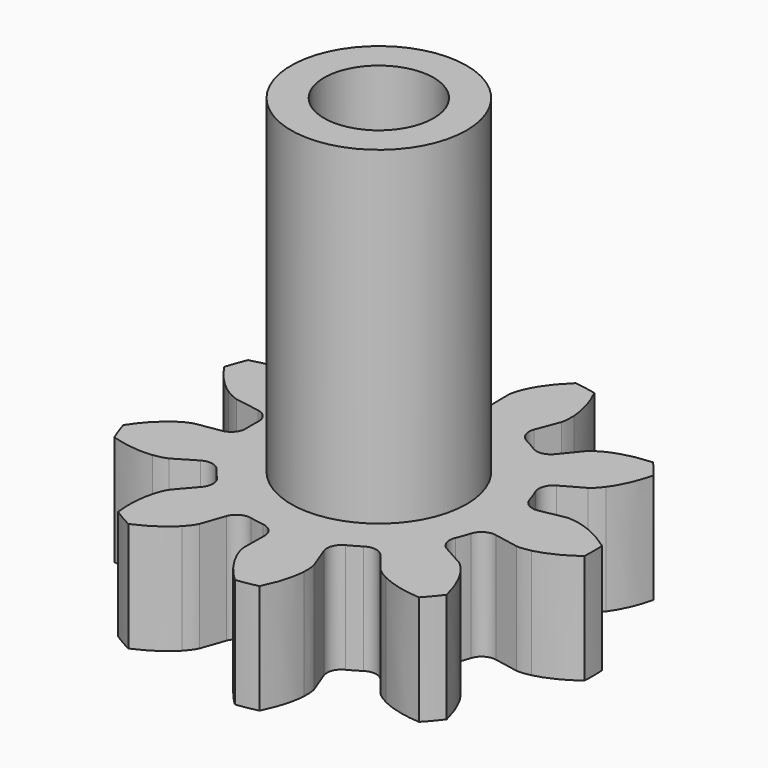
from build123d import *

# Parameters (mm, degrees)
CYLINDER002_R     = 1.5
CYLINDER002_DEPTH = 21
CYLINDER001_R     = 2.4
CYLINDER001_DEPTH = 9
CYLINDER_R        = 1.5
CYLINDER_DEPTH    = 10
EXTRUDE_DEPTH     = 3


with BuildPart() as cilindro_interior:
    # Cylinder002 → Cylinder002 (new body)
    with BuildSketch(Plane.XY.offset(-2)):
        Circle(CYLINDER002_R)
    extrude(amount=CYLINDER002_DEPTH)


with BuildPart() as cilindro_exterior:
    # Cylinder001 → Cylinder001 (new body)
    with BuildSketch(Plane.XY.offset(3)):
        Circle(CYLINDER001_R)
    extrude(amount=CYLINDER001_DEPTH)


with BuildPart() as cilindro:
    # Cylinder → Cylinder (new body)
    with BuildSketch(Plane.XY):
        Circle(CYLINDER_R)
    extrude(amount=CYLINDER_DEPTH)


with BuildPart() as engranaje_3_final:
    # InvoluteGear → Extrude (new body)
    with BuildSketch(Plane.XY):
        with BuildLine():
            Line((3.7783, -0.724438), (4.447599, -0.851782))
            add(Edge.make_bspline(
                [(4.447599, -0.851782), (4.489754, -0.856209), (4.616079, -0.86246), (4.83029, -0.812916)],
                knots=[0, 0, 0, 0, 1, 1, 1, 1], degree=3))
            add(Edge.make_bspline(
                [(4.83029, -0.812916), (5.084179, -0.752054), (5.442728, -0.61296), (5.862517, -0.301343)],
                knots=[0, 0, 0, 0, 1, 1, 1, 1], degree=3))
            ThreePointArc((5.862517, -0.301343), (5.870259, 0), (5.862517, 0.301343))
            add(Edge.make_bspline(
                [(5.862517, 0.301343), (5.442728, 0.61296), (5.084179, 0.752054), (4.83029, 0.812916)],
                knots=[0, 0, 0, 0, 1, 1, 1, 1], degree=3))
            add(Edge.make_bspline(
                [(4.83029, 0.812916), (4.616079, 0.86246), (4.489754, 0.856209), (4.447599, 0.851782)],
                knots=[0, 0, 0, 0, 1, 1, 1, 1], degree=3))
            Line((4.447599, 0.851782), (3.7783, 0.724438))
            ThreePointArc((3.7783, 0.724438), (3.496631, 0.774572), (3.320442, 0.999978))
            ThreePointArc((3.320442, 0.999978), (3.258619, 1.18604), (3.186379, 1.368311))
            ThreePointArc((3.186379, 1.368311), (3.17646, 1.654235), (3.360005, 1.873693))
            Line((3.360005, 1.873693), (3.954574, 2.206359))
            add(Edge.make_bspline(
                [(3.954574, 2.206359), (3.989711, 2.230064), (4.0905, 2.306476), (4.22275, 2.482121)],
                knots=[0, 0, 0, 0, 1, 1, 1, 1], degree=3))
            add(Edge.make_bspline(
                [(4.22275, 2.482121), (4.378118, 2.69194), (4.563375, 3.028964), (4.684648, 3.537511)],
                knots=[0, 0, 0, 0, 1, 1, 1, 1], degree=3))
            ThreePointArc((4.684648, 3.537511), (4.496879, 3.77333), (4.297249, 3.999195))
            add(Edge.make_bspline(
                [(4.297249, 3.999195), (3.775369, 3.968073), (3.411296, 3.844154), (3.177685, 3.727581)],
                knots=[0, 0, 0, 0, 1, 1, 1, 1], degree=3))
            add(Edge.make_bspline(
                [(3.177685, 3.727581), (2.981743, 3.627841), (2.888991, 3.541852), (2.859544, 3.511365)],
                knots=[0, 0, 0, 0, 1, 1, 1, 1], degree=3))
            Line((2.859544, 3.511365), (2.428686, 2.983595))
            ThreePointArc((2.428686, 2.983595), (2.18069, 2.840948), (1.900833, 2.900366))
            ThreePointArc((1.900833, 2.900366), (1.733875, 3.00316), (1.561375, 3.096353))
            ThreePointArc((1.561375, 3.096353), (1.369988, 3.309007), (1.369527, 3.595101))
            Line((1.369527, 3.595101), (1.611159, 4.23212))
            add(Edge.make_bspline(
                [(1.611159, 4.23212), (1.622839, 4.272865), (1.650931, 4.396186), (1.639337, 4.615746)],
                knots=[0, 0, 0, 0, 1, 1, 1, 1], degree=3))
            add(Edge.make_bspline(
                [(1.639337, 4.615746), (1.623487, 4.876346), (1.548767, 5.253602), (1.31478, 5.721125)],
                knots=[0, 0, 0, 0, 1, 1, 1, 1], degree=3))
            ThreePointArc((1.31478, 5.721125), (1.01936, 5.781076), (0.721251, 5.82578))
            add(Edge.make_bspline(
                [(0.721251, 5.82578), (0.341472, 5.46648), (0.14223, 5.137532), (0.038205, 4.898069)],
                knots=[0, 0, 0, 0, 1, 1, 1, 1], degree=3))
            add(Edge.make_bspline(
                [(0.038205, 4.898069), (-0.047784, 4.695715), (-0.063564, 4.570223), (-0.066524, 4.527941)],
                knots=[0, 0, 0, 0, 1, 1, 1, 1], degree=3))
            Line((-0.066524, 4.527941), (-0.057337, 3.846696))
            ThreePointArc((-0.057337, 3.846696), (-0.155621, 3.578013), (-0.408197, 3.443641))
            ThreePointArc((-0.408197, 3.443641), (-0.602168, 3.415067), (-0.794215, 3.375576))
            ThreePointArc((-0.794215, 3.375576), (-1.077516, 3.415458), (-1.261768, 3.634322))
            Line((-1.261768, 3.634322), (-1.486135, 4.277625))
            add(Edge.make_bspline(
                [(-1.486135, 4.277625), (-1.503378, 4.316345), (-1.561127, 4.428871), (-1.711139, 4.589612)],
                knots=[0, 0, 0, 0, 1, 1, 1, 1], degree=3))
            add(Edge.make_bspline(
                [(-1.711139, 4.589612), (-1.890791, 4.779055), (-2.190525, 5.020021), (-2.670288, 5.22776)],
                knots=[0, 0, 0, 0, 1, 1, 1, 1], degree=3))
            ThreePointArc((-2.670288, 5.22776), (-2.935129, 5.083793), (-3.192229, 4.926417))
            add(Edge.make_bspline(
                [(-3.192229, 4.926417), (-3.252203, 4.407061), (-3.193388, 4.027001), (-3.119151, 3.776696)],
                knots=[0, 0, 0, 0, 1, 1, 1, 1], degree=3))
            add(Edge.make_bspline(
                [(-3.119151, 3.776696), (-3.054952, 3.566412), (-2.986375, 3.460136), (-2.961465, 3.425843)],
                knots=[0, 0, 0, 0, 1, 1, 1, 1], degree=3))
            Line((-2.961465, 3.425843), (-2.516531, 2.909885))
            ThreePointArc((-2.516531, 2.909885), (-2.419115, 2.640885), (-2.526227, 2.375598))
            ThreePointArc((-2.526227, 2.375598), (-2.656451, 2.229027), (-2.778182, 2.07533))
            ThreePointArc((-2.778182, 2.07533), (-3.020839, 1.923778), (-3.302668, 1.973003))
            Line((-3.302668, 1.973003), (-3.888049, 2.321582))
            add(Edge.make_bspline(
                [(-3.888049, 2.321582), (-3.926148, 2.340159), (-4.042717, 2.389239), (-4.260955, 2.415948)],
                knots=[0, 0, 0, 0, 1, 1, 1, 1], degree=3))
            add(Edge.make_bspline(
                [(-4.260955, 2.415948), (-4.520348, 2.445591), (-4.904847, 2.437516), (-5.405899, 2.288268)],
                knots=[0, 0, 0, 0, 1, 1, 1, 1], degree=3))
            ThreePointArc((-5.405899, 2.288268), (-5.516239, 2.007747), (-5.612029, 1.721929))
            add(Edge.make_bspline(
                [(-5.612029, 1.721929), (-5.324136, 1.285529), (-5.034783, 1.032192), (-4.817022, 0.888166)],
                knots=[0, 0, 0, 0, 1, 1, 1, 1], degree=3))
            add(Edge.make_bspline(
                [(-4.817022, 0.888166), (-4.632674, 0.768345), (-4.511829, 0.731013), (-4.470703, 0.720755)],
                knots=[0, 0, 0, 0, 1, 1, 1, 1], degree=3))
            Line((-4.470703, 0.720755), (-3.798212, 0.611506))
            ThreePointArc((-3.798212, 0.611506), (-3.550678, 0.468059), (-3.462207, 0.195986))
            ThreePointArc((-3.462207, 0.195986), (-3.46775, 0), (-3.462207, -0.195986))
            ThreePointArc((-3.462207, -0.195986), (-3.550678, -0.468059), (-3.798212, -0.611506))
            Line((-3.798212, -0.611506), (-4.470703, -0.720755))
            add(Edge.make_bspline(
                [(-4.470703, -0.720755), (-4.511829, -0.731013), (-4.632674, -0.768345), (-4.817022, -0.888166)],
                knots=[0, 0, 0, 0, 1, 1, 1, 1], degree=3))
            add(Edge.make_bspline(
                [(-4.817022, -0.888166), (-5.034783, -1.032192), (-5.324136, -1.285529), (-5.612029, -1.721929)],
                knots=[0, 0, 0, 0, 1, 1, 1, 1], degree=3))
            ThreePointArc((-5.612029, -1.721929), (-5.516239, -2.007747), (-5.405899, -2.288268))
            add(Edge.make_bspline(
                [(-5.405899, -2.288268), (-4.904847, -2.437516), (-4.520348, -2.445591), (-4.260955, -2.415948)],
                knots=[0, 0, 0, 0, 1, 1, 1, 1], degree=3))
            add(Edge.make_bspline(
                [(-4.260955, -2.415948), (-4.042717, -2.389239), (-3.926148, -2.340159), (-3.888049, -2.321582)],
                knots=[0, 0, 0, 0, 1, 1, 1, 1], degree=3))
            Line((-3.888049, -2.321582), (-3.302668, -1.973003))
            ThreePointArc((-3.302668, -1.973003), (-3.020839, -1.923778), (-2.778182, -2.07533))
            ThreePointArc((-2.778182, -2.07533), (-2.656451, -2.229027), (-2.526227, -2.375598))
            ThreePointArc((-2.526227, -2.375598), (-2.419115, -2.640885), (-2.516531, -2.909885))
            Line((-2.516531, -2.909885), (-2.961465, -3.425843))
            add(Edge.make_bspline(
                [(-2.961465, -3.425843), (-2.986375, -3.460136), (-3.054952, -3.566412), (-3.119151, -3.776696)],
                knots=[0, 0, 0, 0, 1, 1, 1, 1], degree=3))
            add(Edge.make_bspline(
                [(-3.119151, -3.776696), (-3.193388, -4.027001), (-3.252203, -4.407061), (-3.192229, -4.926417)],
                knots=[0, 0, 0, 0, 1, 1, 1, 1], degree=3))
            ThreePointArc((-3.192229, -4.926417), (-2.935129, -5.083793), (-2.670288, -5.22776))
            add(Edge.make_bspline(
                [(-2.670288, -5.22776), (-2.190525, -5.020021), (-1.890791, -4.779055), (-1.711139, -4.589612)],
                knots=[0, 0, 0, 0, 1, 1, 1, 1], degree=3))
            add(Edge.make_bspline(
                [(-1.711139, -4.589612), (-1.561127, -4.428871), (-1.503378, -4.316345), (-1.486135, -4.277625)],
                knots=[0, 0, 0, 0, 1, 1, 1, 1], degree=3))
            Line((-1.486135, -4.277625), (-1.261768, -3.634322))
            ThreePointArc((-1.261768, -3.634322), (-1.077516, -3.415458), (-0.794215, -3.375576))
            ThreePointArc((-0.794215, -3.375576), (-0.602168, -3.415067), (-0.408197, -3.443641))
            ThreePointArc((-0.408197, -3.443641), (-0.155621, -3.578013), (-0.057337, -3.846696))
            Line((-0.057337, -3.846696), (-0.066524, -4.527941))
            add(Edge.make_bspline(
                [(-0.066524, -4.527941), (-0.063564, -4.570223), (-0.047784, -4.695715), (0.038205, -4.898069)],
                knots=[0, 0, 0, 0, 1, 1, 1, 1], degree=3))
            add(Edge.make_bspline(
                [(0.038205, -4.898069), (0.14223, -5.137532), (0.341472, -5.46648), (0.721251, -5.82578)],
                knots=[0, 0, 0, 0, 1, 1, 1, 1], degree=3))
            ThreePointArc((0.721251, -5.82578), (1.01936, -5.781076), (1.31478, -5.721125))
            add(Edge.make_bspline(
                [(1.31478, -5.721125), (1.548767, -5.253602), (1.623487, -4.876346), (1.639337, -4.615746)],
                knots=[0, 0, 0, 0, 1, 1, 1, 1], degree=3))
            add(Edge.make_bspline(
                [(1.639337, -4.615746), (1.650931, -4.396186), (1.622839, -4.272865), (1.611159, -4.23212)],
                knots=[0, 0, 0, 0, 1, 1, 1, 1], degree=3))
            Line((1.611159, -4.23212), (1.369527, -3.595101))
            ThreePointArc((1.369527, -3.595101), (1.369988, -3.309007), (1.561375, -3.096353))
            ThreePointArc((1.561375, -3.096353), (1.733875, -3.00316), (1.900833, -2.900366))
            ThreePointArc((1.900833, -2.900366), (2.18069, -2.840948), (2.428686, -2.983595))
            Line((2.428686, -2.983595), (2.859544, -3.511365))
            add(Edge.make_bspline(
                [(2.859544, -3.511365), (2.888991, -3.541852), (2.981743, -3.627841), (3.177685, -3.727581)],
                knots=[0, 0, 0, 0, 1, 1, 1, 1], degree=3))
            add(Edge.make_bspline(
                [(3.177685, -3.727581), (3.411296, -3.844154), (3.775369, -3.968073), (4.297249, -3.999195)],
                knots=[0, 0, 0, 0, 1, 1, 1, 1], degree=3))
            ThreePointArc((4.297249, -3.999195), (4.496879, -3.77333), (4.684648, -3.537511))
            add(Edge.make_bspline(
                [(4.684648, -3.537511), (4.563375, -3.028964), (4.378118, -2.69194), (4.22275, -2.482121)],
                knots=[0, 0, 0, 0, 1, 1, 1, 1], degree=3))
            add(Edge.make_bspline(
                [(4.22275, -2.482121), (4.0905, -2.306476), (3.989711, -2.230064), (3.954574, -2.206359)],
                knots=[0, 0, 0, 0, 1, 1, 1, 1], degree=3))
            Line((3.954574, -2.206359), (3.360005, -1.873693))
            ThreePointArc((3.360005, -1.873693), (3.17646, -1.654235), (3.186379, -1.368311))
            ThreePointArc((3.186379, -1.368311), (3.258619, -1.18604), (3.320442, -0.999978))
            ThreePointArc((3.320442, -0.999978), (3.496631, -0.774572), (3.7783, -0.724438))
        make_face()
    extrude(amount=EXTRUDE_DEPTH)

    # Cut: cut Cilindro
    add(cilindro.part, mode=Mode.SUBTRACT)

    # Fusion: union Cilindro exterior
    add(cilindro_exterior.part)

    # Cut001: cut Cilindro interior
    add(cilindro_interior.part, mode=Mode.SUBTRACT)


solid = engranaje_3_final.part
